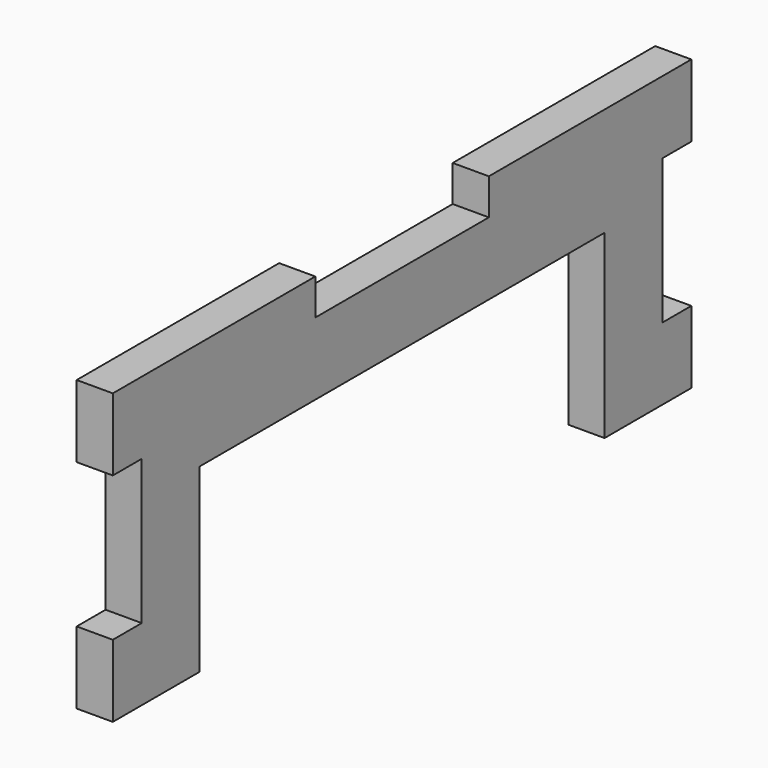
from build123d import *

# Parameters (mm, degrees)
F1_DEPTH = 6.35


with BuildPart() as f1:
    # F0 (on Right) → F1 (new body)
    with BuildSketch(Plane.YZ):
        Polygon((63.5, 25.4), (57.15, 25.4), (50.8, 25.4), (44.45, 25.4), (38.1, 25.4), (31.75, 25.4), (25.4, 25.4), (19.05, 25.4), (19.05, 19.05), (12.7, 19.05), (6.35, 19.05), (0, 19.05), (-6.35, 19.05), (-12.7, 19.05), (-19.05, 19.05), (-19.05, 25.4), (-25.4, 25.4), (-31.75, 25.4), (-38.1, 25.4), (-44.45, 25.4), (-50.8, 25.4), (-63.5, 25.4), (-63.5, 12.7), (-57.15, 12.7), (-57.15, 6.35), (-57.15, 0), (-57.15, -6.35), (-57.15, -12.7), (-63.5, -12.7), (-63.5, -19.05), (-63.5, -25.4), (-50.8, -25.4), (-44.45, -25.4), (-44.45, 6.35), (44.45, 6.35), (44.45, -25.4), (50.8, -25.4), (63.5, -25.4), (63.5, -19.05), (63.5, -12.7), (57.15, -12.7), (57.15, -6.35), (57.15, 0), (57.15, 6.35), (57.15, 12.7), (63.5, 12.7), align=None)
    extrude(amount=-F1_DEPTH)


solid = f1.part
